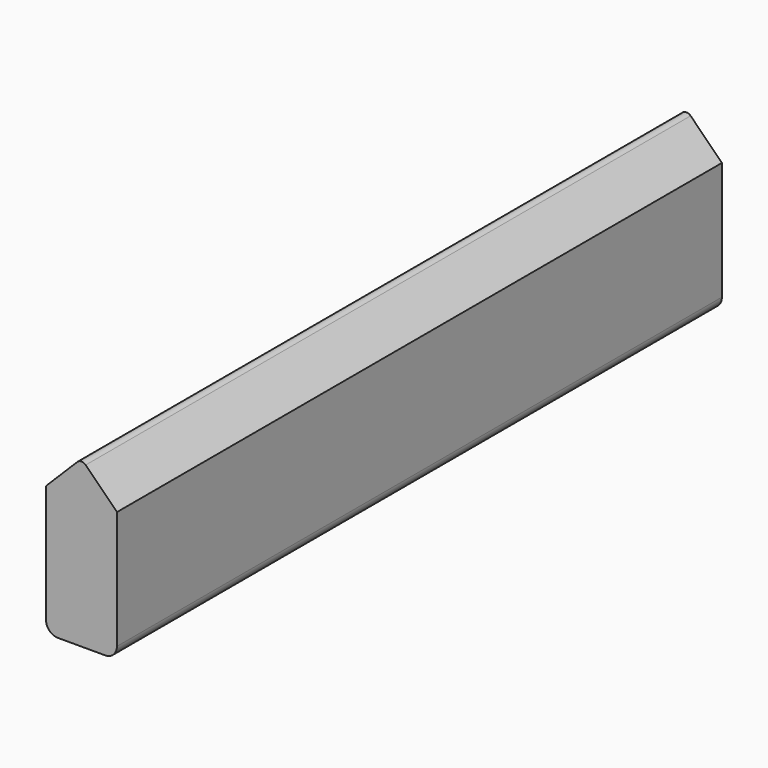
from build123d import *

# Parameters (mm, degrees)
F1_DEPTH = 406.4


with BuildPart() as f1:
    # F0 (on Front) → F1 (new body)
    with BuildSketch(Plane.XZ):
        with BuildLine():
            Line((-12.7, -44.45), (12.7, -44.45))
            ThreePointArc((12.7, -44.45), (17.190128, -42.590128), (19.05, -38.1))
            Line((19.05, -38.1), (19.05, 25.4))
            Line((19.05, 25.4), (2.245064, 42.204936))
            ThreePointArc((2.245064, 42.204936), (0, 43.134872), (-2.245064, 42.204936))
            Line((-2.245064, 42.204936), (-19.05, 25.4))
            Line((-19.05, 25.4), (-19.05, -38.1))
            ThreePointArc((-19.05, -38.1), (-17.190128, -42.590128), (-12.7, -44.45))
        make_face()
    extrude(amount=F1_DEPTH)


solid = f1.part
